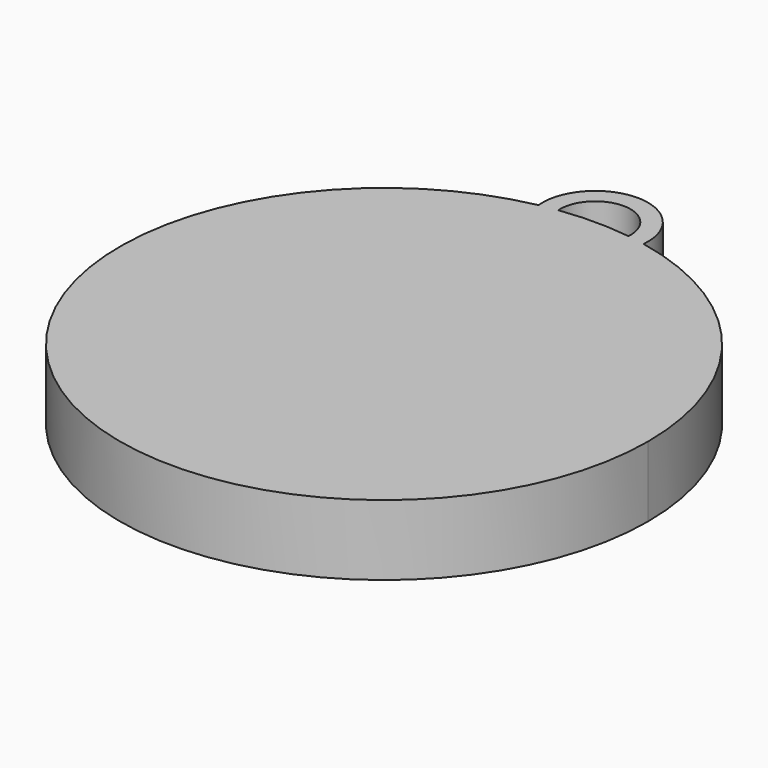
from build123d import *

# Parameters (mm, degrees)
F1_DEPTH = 5.08


with BuildPart() as f1:
    # F0 (on Top) → F1 (new body)
    with BuildSketch(Plane.XY):
        with BuildLine():
            ThreePointArc((-3.790902, 18.669), (-12.055825, -14.749901), (19.05, 0))
            ThreePointArc((19.05, 0), (14.749901, 12.055825), (3.790902, 18.669))
            ThreePointArc((3.790902, 18.669), (3.164396, 18.785343), (2.534349, 18.880667))
            ThreePointArc((2.534349, 18.880667), (0, 19.05), (-2.534349, 18.880667))
            ThreePointArc((-2.534349, 18.880667), (-3.164396, 18.785343), (-3.790902, 18.669))
        make_face()
        with BuildLine():
            ThreePointArc((2.534349, 18.880667), (3.164396, 18.785343), (3.790902, 18.669))
            ThreePointArc((3.790902, 18.669), (0, 22.86), (-3.790902, 18.669))
            ThreePointArc((-3.790902, 18.669), (-3.164396, 18.785343), (-2.534349, 18.880667))
            ThreePointArc((-2.534349, 18.880667), (0, 21.59), (2.534349, 18.880667))
        make_face()
    extrude(amount=F1_DEPTH)


solid = f1.part
